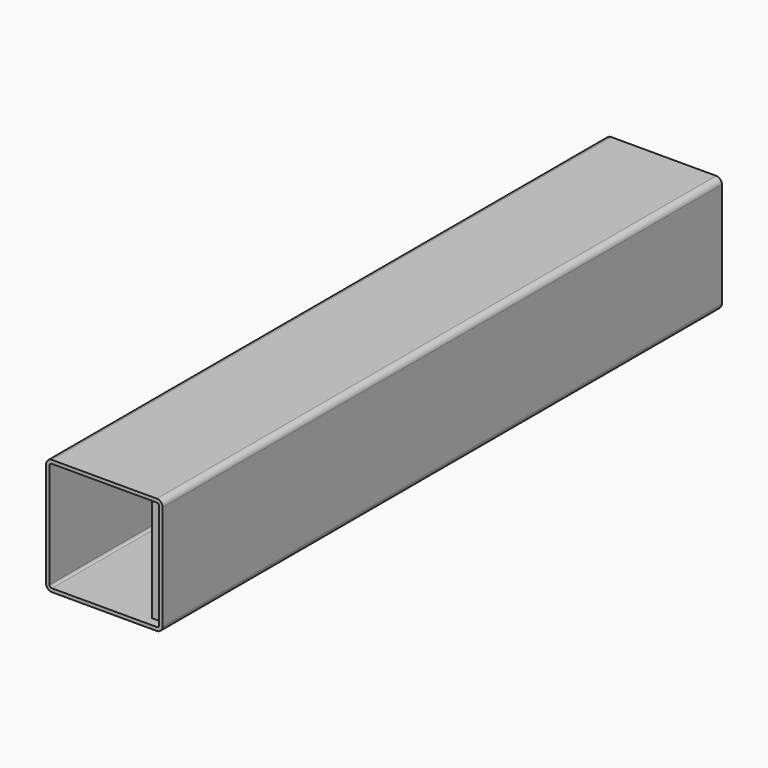
from build123d import *

# Parameters (mm, degrees)
F1_DEPTH = 600
F2_W     = 90
F2_H     = 90
F2_R     = 6
F2_R_2   = 3
F3_DEPTH = 10


with BuildPart() as f1:
    # F0 (on Front) → F1 (new body)
    with BuildSketch(Plane.XZ):
        with BuildLine():
            ThreePointArc((50, 45), (48.5355339059, 48.5355339059), (45, 50))
            Line((45, 50), (-45, 50))
            ThreePointArc((-45, 50), (-48.5355339059, 48.5355339059), (-50, 45))
            Line((-50, 45), (-50, -45))
            ThreePointArc((-50, -45), (-48.5355339059, -48.5355339059), (-45, -50))
            Line((-45, -50), (45, -50))
            ThreePointArc((45, -50), (48.5355339059, -48.5355339059), (50, -45))
            Line((50, -45), (50, 45))
        make_face()
        with BuildLine():
            ThreePointArc((-47, 45), (-46.4142135624, 46.4142135624), (-45, 47))
            Line((-45, 47), (45, 47))
            ThreePointArc((45, 47), (46.4142135624, 46.4142135624), (47, 45))
            Line((47, 45), (47, -45))
            ThreePointArc((47, -45), (46.4142135624, -46.4142135624), (45, -47))
            Line((45, -47), (-45, -47))
            ThreePointArc((-45, -47), (-46.4142135624, -46.4142135624), (-47, -45))
            Line((-47, -45), (-47, 45))
        make_face(mode=Mode.SUBTRACT)
    extrude(amount=-F1_DEPTH)

    # F2 (on face) → F3 (join)
    with BuildSketch(Plane(origin=(47, 0, 0), x_dir=(0, -1, 0), z_dir=(-1, 0, 0))):
        with Locations((-50, 0)):
            Rectangle(F2_W, F2_H)
        with Locations((-79, -29)):
            Circle(F2_R, mode=Mode.SUBTRACT)
        with Locations((-21, -29)):
            Circle(F2_R, mode=Mode.SUBTRACT)
        with Locations((-79, 29)):
            Circle(F2_R, mode=Mode.SUBTRACT)
        with Locations((-50, 0)):
            Circle(F2_R_2, mode=Mode.SUBTRACT)
        with Locations((-21, 29)):
            Circle(F2_R, mode=Mode.SUBTRACT)
    extrude(amount=F3_DEPTH)


solid = f1.part
